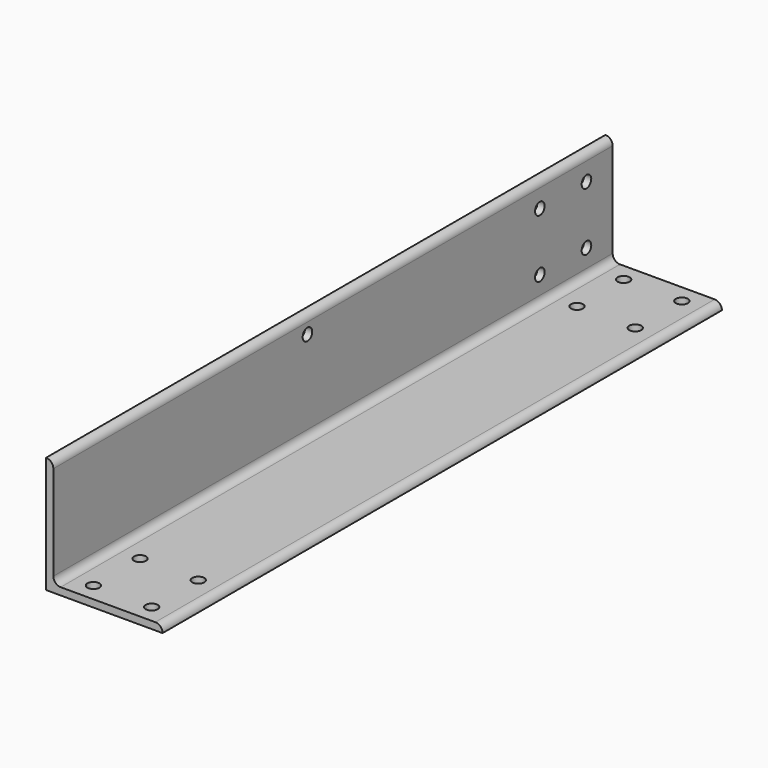
from build123d import *

# Parameters (mm, degrees)
F1_DEPTH = 304.8
F2_R     = 2.6162
F3_DEPTH = 3.176
F4_R     = 2.6162
F5_DEPTH = 3.176
F6_R     = 2.6162
F7_DEPTH = 50.801


with BuildPart() as f1:
    # F0 (on Front) → F1 (new body)
    with BuildSketch(Plane.XZ):
        with BuildLine():
            Line((-50.8, 0), (0, 0))
            ThreePointArc((0, 0), (-0.929936, 2.245064), (-3.175, 3.175))
            Line((-3.175, 3.175), (-44.45, 3.175))
            ThreePointArc((-44.45, 3.175), (-46.695064, 4.104936), (-47.625, 6.35))
            Line((-47.625, 6.35), (-47.625, 47.625))
            ThreePointArc((-47.625, 47.625), (-48.554936, 49.870064), (-50.8, 50.8))
            Line((-50.8, 50.8), (-50.8, 0))
        make_face()
    extrude(amount=F1_DEPTH)

    # F2 (on face) → F3 (cut, through all)
    with BuildSketch(Plane.YZ.offset(-47.625)):
        with Locations((-14.2875, 14.2875)):
            Circle(F2_R)
        with Locations((-39.6875, 14.2875)):
            Circle(F2_R)
        with Locations((-14.2875, 39.6875)):
            Circle(F2_R)
        with Locations((-39.6875, 39.6875)):
            Circle(F2_R)
    extrude(amount=-F3_DEPTH, mode=Mode.SUBTRACT)

    # F4 (on face) → F5 (cut, through all)
    with BuildSketch(Plane.XY.offset(3.175)):
        with Locations((-36.5125, -296.8625)):
            Circle(F4_R)
        with Locations((-36.5125, -7.9375)):
            Circle(F4_R)
        with Locations((-11.1125, -7.9375)):
            Circle(F4_R)
        with Locations((-11.1125, -296.8625)):
            Circle(F4_R)
        with Locations((-11.1125, -271.4625)):
            Circle(F4_R)
        with Locations((-36.5125, -271.4625)):
            Circle(F4_R)
        with Locations((-11.1125, -33.3375)):
            Circle(F4_R)
        with Locations((-36.5125, -33.3375)):
            Circle(F4_R)
    extrude(amount=-F5_DEPTH, mode=Mode.SUBTRACT)

    # F6 (on face) → F7 (cut, through all)
    with BuildSketch(Plane(origin=(-50.8, 0, 0), x_dir=(0, -1, 0), z_dir=(-1, 0, 0))):
        with Locations((166.3319, 42.8625)):
            Circle(F6_R)
    extrude(amount=-F7_DEPTH, mode=Mode.SUBTRACT)


solid = f1.part
